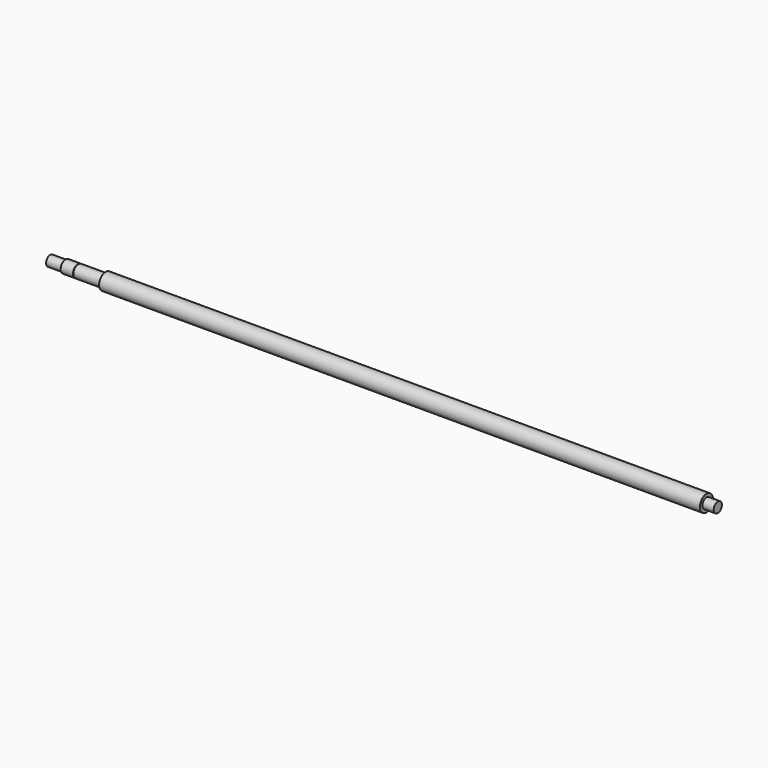
from build123d import *


with BuildPart() as f1:
    # F0 (on Front) → F1 (revolve)
    with BuildSketch(Plane.XZ):
        Polygon((-331.5, 0), (-292.5, 0), (59.480722, 0), (292.5, 0), (303.5, 0), (303.5, 5), (292.5, 5), (292.5, 8), (-292.5, 8), (-292.5, 6), (-319, 6), (-319, 5.5), (-319.5, 5.5), (-319.5, 6), (-331.5, 6), (-331.5, 5), (-346.5, 5), (-346.5, 0), align=None)
    revolve(axis=Axis((0, 0, 0), (1, 0, 0)))


solid = f1.part
